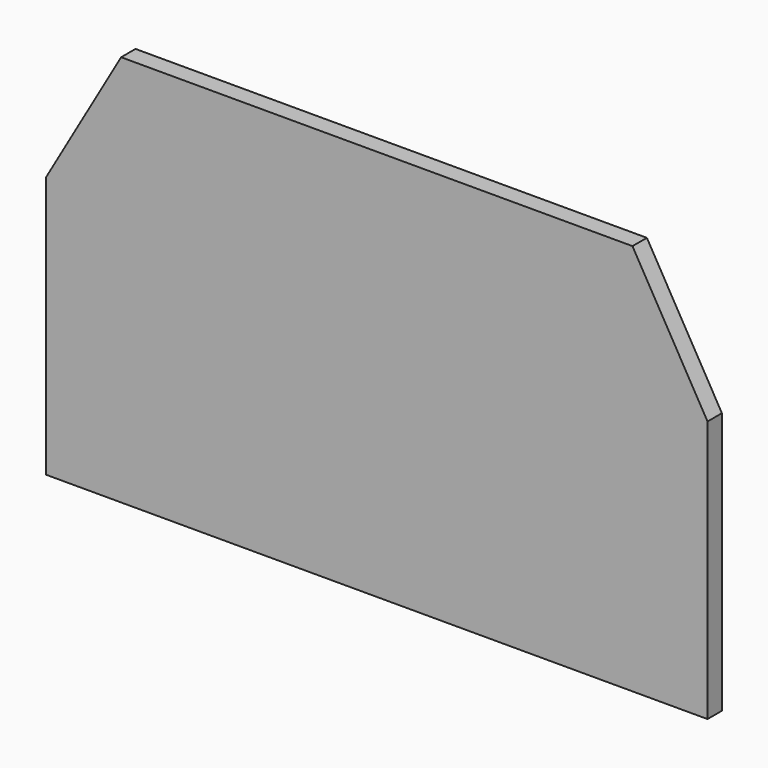
from build123d import *

# Parameters (mm, degrees)
F0_W     = 168.040336
F0_H     = 99.579409
F1_DEPTH = 4.572
F2_SIZE2 = 19.064106
F2_SIZE  = 33.02


with BuildPart() as f1:
    # F0 (on Front) → F1 (new body)
    with BuildSketch(Plane.XZ):
        with Locations((0, 23.650117)):
            Rectangle(F0_W, F0_H)
    extrude(amount=F1_DEPTH)

    # F2
    f2_edges = [f1.edges().sort_by_distance(p)[0] for p in [
        (-84.020168, -2.286, 73.439822),
        (84.020168, -2.286, 73.439822),
    ]]
    chamfer(f2_edges, length=F2_SIZE, length2=F2_SIZE2)


solid = f1.part
